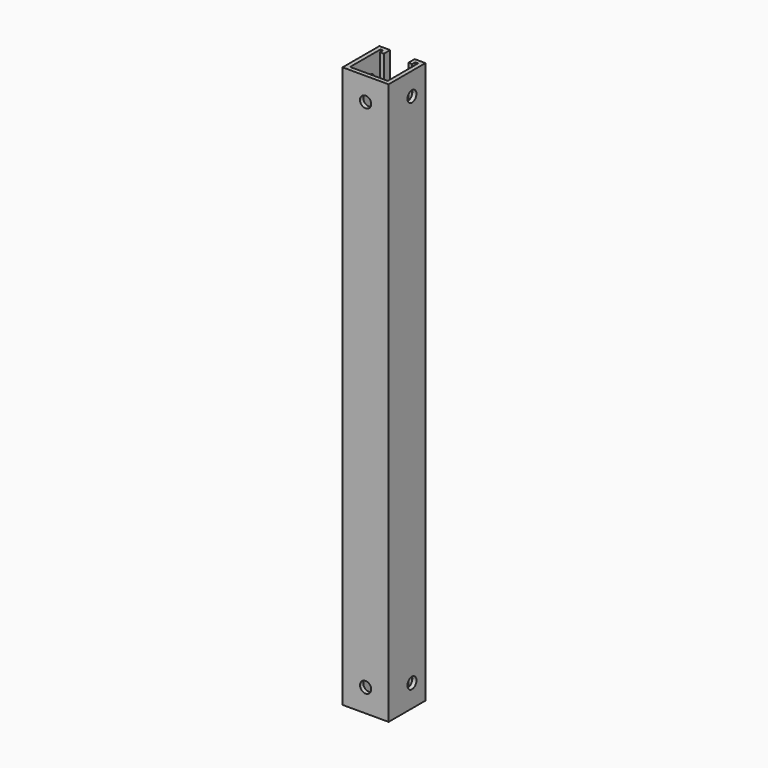
from build123d import *

# Parameters (mm, degrees)
F1_DEPTH = 500
F2_R     = 5
F3_DEPTH = 3.7
F4_R     = 5
F5_DEPTH = 41.001


with BuildPart() as f1:
    # F0 (on Top) → F1 (new body)
    with BuildSketch(Plane.XY):
        Polygon((0, 41), (0, 0), (41, 0), (41, 41), (31.4, 41), (31.4, 34), (34.8, 34), (34.8, 37.5), (37.3, 37.5), (37.3, 3.7), (3.7, 3.7), (3.7, 37.5), (6.2, 37.5), (6.2, 34), (9.6, 34), (9.6, 41), align=None)
    extrude(amount=F1_DEPTH)

    # F2 (on face) → F3 (cut, through all)
    with BuildSketch(Plane(origin=(0, 3.7, 0), x_dir=(-1, 0, 0), z_dir=(0, 1, 0))):
        with Locations((-20.5, 479.5)):
            Circle(F2_R)
        with Locations((-20.5, 20.5)):
            Circle(F2_R)
    extrude(amount=-F3_DEPTH, mode=Mode.SUBTRACT)

    # F4 (on face) → F5 (cut, through all)
    with BuildSketch(Plane(origin=(0, 0, 0), x_dir=(0, -1, 0), z_dir=(-1, 0, 0))):
        with Locations((-26, 20)):
            Circle(F4_R)
        with Locations((-26, 480)):
            Circle(F4_R)
    extrude(amount=-F5_DEPTH, mode=Mode.SUBTRACT)


solid = f1.part
